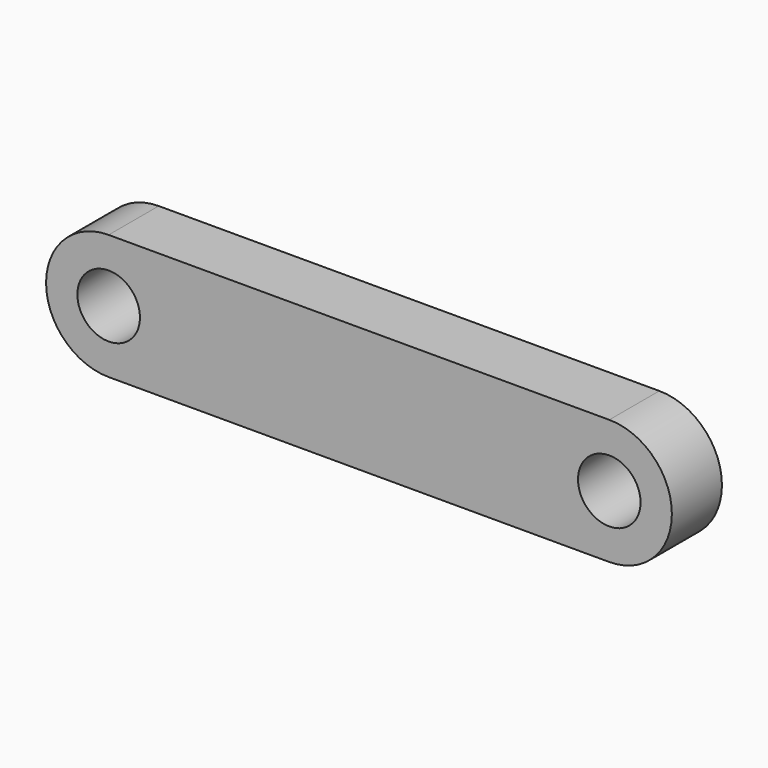
from build123d import *

# Parameters (mm, degrees)
F1_DEPTH = 10
F2_R     = 5
F3_DEPTH = 10.001


with BuildPart() as f1:
    # F0 (on Front) → F1 (new body)
    with BuildSketch(Plane.XZ):
        with BuildLine():
            ThreePointArc((0, 20), (-10, 10), (0, 0))
            Line((0, 0), (80, 0))
            ThreePointArc((80, 0), (90, 10), (80, 20))
            Line((80, 20), (0, 20))
        make_face()
    extrude(amount=F1_DEPTH)

    # F2 (on face) → F3 (cut, through all)
    with BuildSketch(Plane.XZ.offset(10)):
        with Locations((0, 10)):
            Circle(F2_R)
        with Locations((80, 10)):
            Circle(F2_R)
    extrude(amount=-F3_DEPTH, mode=Mode.SUBTRACT)


solid = f1.part
